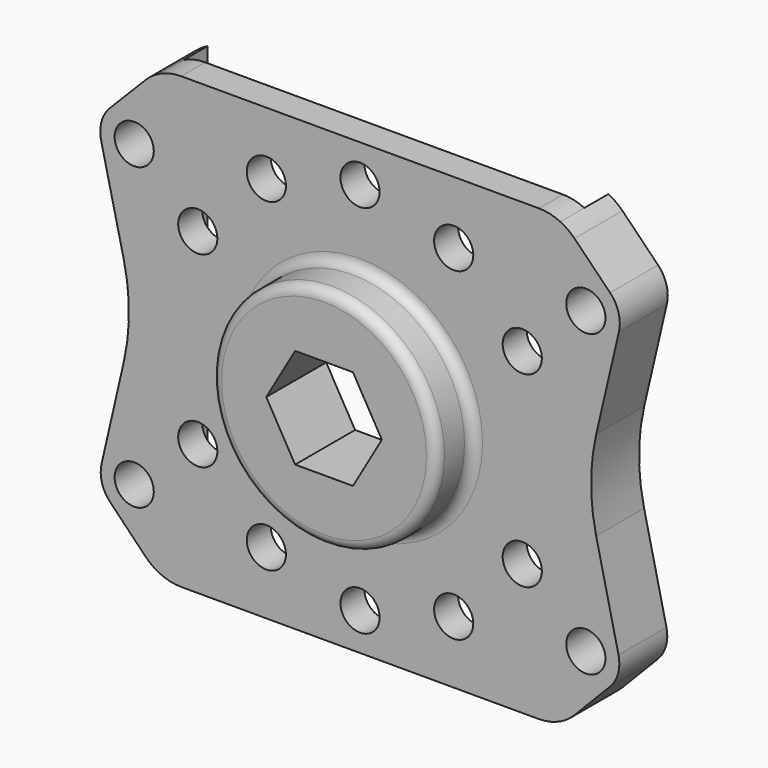
from build123d import *

# Parameters (mm, degrees)
F0_R     = 2.4892
F0_R_2   = 14.29512
F1_DEPTH = 3.81
F2_DEPTH = 9.525
F3_DEPTH = 3.81
F4_R     = 1.27
F5_R     = 1.27


with BuildPart() as f1:
    # F0 (on Front) → F1 (new body)
    with BuildSketch(Plane.XZ):
        with BuildLine():
            Line((22.068503, 28.572265), (-23.40348, 28.572265))
            ThreePointArc((-23.40348, 28.572265), (-24.801539, 28.41645), (-26.130988, 27.956652))
            Line((-26.130988, 27.956652), (-26.130988, -27.950701))
            ThreePointArc((-26.130988, -27.950701), (-24.790565, -28.418992), (-23.379597, -28.577735))
            Line((-23.379597, -28.577735), (22.04462, -28.577735))
            ThreePointArc((22.04462, -28.577735), (23.455588, -28.418992), (24.796012, -27.950701))
            Line((24.796012, -27.950701), (24.796012, 27.956652))
            ThreePointArc((24.796012, 27.956652), (23.466562, 28.41645), (22.068503, 28.572265))
        make_face()
        with Locations((-12.573738, -20.624965)):
            Circle(F0_R, mode=Mode.SUBTRACT)
        with Locations((-21.289718, -11.908985)):
            Circle(F0_R, mode=Mode.SUBTRACT)
        with Locations((-0.667488, -23.815235)):
            Circle(F0_R, mode=Mode.SUBTRACT)
        with Locations((11.238762, -20.624965)):
            Circle(F0_R, mode=Mode.SUBTRACT)
        with Locations((-0.667488, -0.002735)):
            Circle(F0_R_2, mode=Mode.SUBTRACT)
        with Locations((19.954742, -11.908985)):
            Circle(F0_R, mode=Mode.SUBTRACT)
        with Locations((-21.289718, 11.903515)):
            Circle(F0_R, mode=Mode.SUBTRACT)
        with Locations((-12.573738, 20.619495)):
            Circle(F0_R, mode=Mode.SUBTRACT)
        with Locations((-0.667488, 23.809765)):
            Circle(F0_R, mode=Mode.SUBTRACT)
        with Locations((19.954742, 11.903515)):
            Circle(F0_R, mode=Mode.SUBTRACT)
        with Locations((11.238762, 20.619495)):
            Circle(F0_R, mode=Mode.SUBTRACT)
        with Locations((-0.667488, -0.002735)):
            Circle(F0_R_2)
        Polygon((-8.014501, -0.002735), (-4.340995, 6.359965), (3.006018, 6.359965), (6.679525, -0.002735), (3.006018, -6.365435), (-4.340995, -6.365435), align=None, mode=Mode.SUBTRACT)
        with BuildLine():
            ThreePointArc((26.599113, 26.671543), (25.754008, 27.393295), (24.796012, 27.956652))
            Line((24.796012, 27.956652), (24.796012, -27.950701))
            ThreePointArc((24.796012, -27.950701), (25.757368, -27.379239), (26.603558, -26.647982))
            Line((26.603558, -26.647982), (31.09275, -22.017935))
            ThreePointArc((31.09275, -22.017935), (32.137376, -20.198047), (32.186375, -18.100229))
            Line((32.186375, -18.100229), (29.346901, -5.723291))
            ThreePointArc((29.346901, -5.723291), (28.703786, -0.003786), (29.364856, 5.713672))
            Line((29.364856, 5.713672), (32.240124, 18.068518))
            ThreePointArc((32.240124, 18.068518), (32.191617, 20.214999), (31.115326, 22.072774))
            Line((31.115326, 22.072774), (26.599113, 26.671543))
        make_face()
        with Locations((28.034512, -19.052735)):
            Circle(F0_R, mode=Mode.SUBTRACT)
        with Locations((28.034512, 19.047265)):
            Circle(F0_R, mode=Mode.SUBTRACT)
        with BuildLine():
            Line((-26.130988, -27.950701), (-26.130988, 27.956652))
            ThreePointArc((-26.130988, 27.956652), (-27.088985, 27.393295), (-27.934089, 26.671543))
            Line((-27.934089, 26.671543), (-32.450303, 22.072774))
            ThreePointArc((-32.450303, 22.072774), (-33.526593, 20.214999), (-33.575101, 18.068518))
            Line((-33.575101, 18.068518), (-30.699833, 5.713672))
            ThreePointArc((-30.699833, 5.713672), (-30.038763, -0.003786), (-30.681878, -5.723291))
            Line((-30.681878, -5.723291), (-33.521351, -18.100229))
            ThreePointArc((-33.521351, -18.100229), (-33.472352, -20.198047), (-32.427726, -22.017935))
            Line((-32.427726, -22.017935), (-27.938535, -26.647982))
            ThreePointArc((-27.938535, -26.647982), (-27.092345, -27.379239), (-26.130988, -27.950701))
        make_face()
        with Locations((-29.369488, -19.052735)):
            Circle(F0_R, mode=Mode.SUBTRACT)
        with Locations((-29.369488, 19.047265)):
            Circle(F0_R, mode=Mode.SUBTRACT)
    extrude(amount=F1_DEPTH)

    # F0 (on Front) → F2 (join)
    with BuildSketch(Plane.XZ):
        with Locations((-0.667488, -0.002735)):
            Circle(F0_R_2)
        Polygon((-8.014501, -0.002735), (-4.340995, 6.359965), (3.006018, 6.359965), (6.679525, -0.002735), (3.006018, -6.365435), (-4.340995, -6.365435), align=None, mode=Mode.SUBTRACT)
    extrude(amount=F2_DEPTH)

    # F0 (on Front) → F3 (join)
    with BuildSketch(Plane.XZ):
        with BuildLine():
            Line((-26.130988, -27.950701), (-26.130988, 27.956652))
            ThreePointArc((-26.130988, 27.956652), (-27.088985, 27.393295), (-27.934089, 26.671543))
            Line((-27.934089, 26.671543), (-32.450303, 22.072774))
            ThreePointArc((-32.450303, 22.072774), (-33.526593, 20.214999), (-33.575101, 18.068518))
            Line((-33.575101, 18.068518), (-30.699833, 5.713672))
            ThreePointArc((-30.699833, 5.713672), (-30.038763, -0.003786), (-30.681878, -5.723291))
            Line((-30.681878, -5.723291), (-33.521351, -18.100229))
            ThreePointArc((-33.521351, -18.100229), (-33.472352, -20.198047), (-32.427726, -22.017935))
            Line((-32.427726, -22.017935), (-27.938535, -26.647982))
            ThreePointArc((-27.938535, -26.647982), (-27.092345, -27.379239), (-26.130988, -27.950701))
        make_face()
        with Locations((-29.369488, -19.052735)):
            Circle(F0_R, mode=Mode.SUBTRACT)
        with Locations((-29.369488, 19.047265)):
            Circle(F0_R, mode=Mode.SUBTRACT)
        with BuildLine():
            ThreePointArc((26.599113, 26.671543), (25.754008, 27.393295), (24.796012, 27.956652))
            Line((24.796012, 27.956652), (24.796012, -27.950701))
            ThreePointArc((24.796012, -27.950701), (25.757368, -27.379239), (26.603558, -26.647982))
            Line((26.603558, -26.647982), (31.09275, -22.017935))
            ThreePointArc((31.09275, -22.017935), (32.137376, -20.198047), (32.186375, -18.100229))
            Line((32.186375, -18.100229), (29.346901, -5.723291))
            ThreePointArc((29.346901, -5.723291), (28.703786, -0.003786), (29.364856, 5.713672))
            Line((29.364856, 5.713672), (32.240124, 18.068518))
            ThreePointArc((32.240124, 18.068518), (32.191617, 20.214999), (31.115326, 22.072774))
            Line((31.115326, 22.072774), (26.599113, 26.671543))
        make_face()
        with Locations((28.034512, -19.052735)):
            Circle(F0_R, mode=Mode.SUBTRACT)
        with Locations((28.034512, 19.047265)):
            Circle(F0_R, mode=Mode.SUBTRACT)
    extrude(amount=-F3_DEPTH)

    # F4
    f4_edges = [f1.edges().sort_by_distance(p)[0] for p in [
        (-14.962608, -9.525, -0.002735),
    ]]
    fillet(f4_edges, radius=F4_R)

    # F5
    f5_edges = [f1.edges().sort_by_distance(p)[0] for p in [
        (-14.962608, -3.81, -0.002735),
    ]]
    fillet(f5_edges, radius=F5_R)


solid = f1.part
